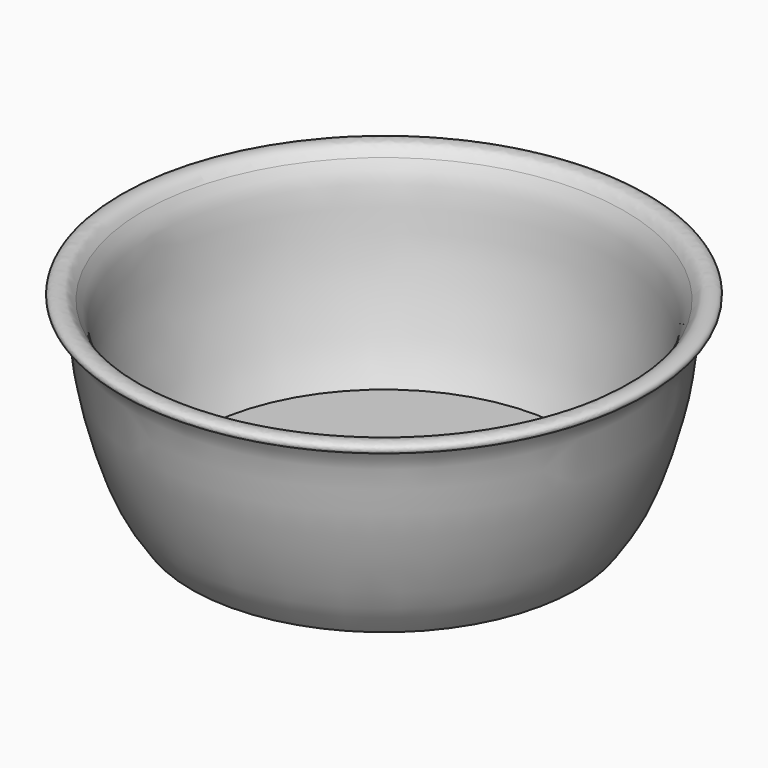
from build123d import *

# Parameters (mm, degrees)
F0_R     = 76.2
F0_R_2   = 73.025
F1_DEPTH = 6.35
F2_DEPTH = 5.08


with BuildPart() as f1:
    # F0 (on Top) → F1 (new body)
    with BuildSketch(Plane.XY):
        Circle(F0_R)
        Circle(F0_R_2, mode=Mode.SUBTRACT)
        Circle(F0_R_2)
        with BuildLine():
            add(Edge.make_bspline(
                [(-18.4934735298, -24.4344193488), (-18.9034670115, -23.3474597731), (-19.5917640548, -20.2951636147), (-19.4234590082, -15.7603633236), (-16.8814295255, -12.0385042312), (-14.08935451, -9.3467016476), (-11.5148539923, -7.1553565583), (-9.6434418125, -3.9427675163), (-8.0995000702, -0.8312551659), (-6.5151638628, 1.1314170066), (-4.0066315907, 3.139574537), (-1.2473791364, 3.8191693743), (1.7083134074, 3.9159171999), (4.4525887912, 2.8197358184), (7.0918213051, 0.7149886211), (8.2717325755, -1.407125935), (10.2104385083, -4.6843993846), (11.8464128715, -7.6192018472), (14.5066008993, -9.670554697), (16.4291664021, -11.4767857382), (18.4010578674, -13.7215037029), (19.562452157, -16.5911324361), (19.5333909632, -20.7296725677), (18.9091556811, -24.3845144775), (17.3730919759, -27.0551536295), (14.3489538995, -29.6949954705), (11.0882679676, -30.6592577199), (7.3450953677, -29.964370628), (4.5478616218, -29.2096646306), (2.3611659003, -28.6722629328), (-0.7989885317, -28.5066079027), (-3.335722799, -28.763489379), (-7.6041761343, -29.9251380879), (-10.041567154, -30.5858993239), (-13.2494692853, -29.9567221745), (-15.6358281562, -28.4720757487), (-17.4795912067, -26.4409745347), (-18.190642818, -25.2372729472), (-18.4934735298, -24.4344193488)],
                knots=[0, 0, 0, 0, 0.0316173687, 0.0645142656, 0.0968883689, 0.1273751291, 0.1556558483, 0.1855029763, 0.2142419626, 0.2388320624, 0.266101142, 0.2921484379, 0.3183688083, 0.3449635369, 0.3728641203, 0.3970941576, 0.4270924787, 0.455779607, 0.4837318602, 0.5090110059, 0.5353542744, 0.562327404, 0.5937715021, 0.6234534668, 0.6503802889, 0.6808868937, 0.7091555642, 0.7391525254, 0.7654253498, 0.7887011254, 0.815657802, 0.8410650755, 0.8732425809, 0.8982207931, 0.9254007262, 0.9515137951, 0.9766466768, 1, 1, 1, 1], degree=3))
        make_face(mode=Mode.SUBTRACT)
        with BuildLine():
            add(Edge.make_bspline(
                [(-27.0922090858, 6.6984295845), (-26.9064236214, 7.2016881707), (-26.4187008888, 8.4095237439), (-24.632388865, 10.6437137028), (-22.7791770772, 11.8233996116), (-21.1657710283, 12.2246084384), (-19.930661779, 11.5488210306), (-19.4109554677, 9.7885706754), (-17.7668810578, 7.783969161), (-16.4589531378, 6.1657663894), (-14.3842306501, 4.6444069096), (-12.7499323192, 2.096062101), (-12.0160596826, -0.7494389975), (-12.4019401398, -3.9150367584), (-14.2334054974, -7.1975826946), (-16.9051053353, -9.2548671628), (-19.5263315007, -10.2667011244), (-20.7825468688, -10.2518840809), (-22.4386967296, -9.5173341414), (-24.9249795836, -7.563222025), (-26.4395312731, -4.8565631316), (-28.0185017534, -1.241851519), (-28.1438201419, 2.0684923371), (-27.6203816617, 5.1620986966), (-27.2666090295, 6.2260122756), (-27.0922090858, 6.6984295845)],
                knots=[0, 0, 0, 0, 0.0370519554, 0.0837519281, 0.1250088777, 0.1593225788, 0.189583302, 0.2263600267, 0.2707990541, 0.3108802359, 0.3547037872, 0.402473265, 0.4493805926, 0.4981394354, 0.5511267813, 0.6023643451, 0.6477104238, 0.6775335416, 0.7137821512, 0.7624511769, 0.8116268863, 0.866001151, 0.916848345, 0.9652187055, 1, 1, 1, 1], degree=3))
        make_face(mode=Mode.SUBTRACT)
        with BuildLine():
            add(Edge.make_bspline(
                [(-4.0214825422, 6.6984295845), (-4.6042555791, 6.4250910434), (-5.8445047433, 5.8433759061), (-8.2415879168, 4.9239951643), (-10.8977706432, 4.9011997738), (-13.4397251888, 5.5107616878), (-15.4533392698, 7.5801394674), (-16.5305164143, 10.4956952753), (-17.0522835817, 12.789193683), (-17.3470030869, 14.4010216534), (-17.4954738468, 15.213011764)],
                knots=[0, 0, 0, 0, 0.110896944, 0.2360092753, 0.3635783693, 0.4881355174, 0.6188630535, 0.7565196482, 0.8773419736, 1, 1, 1, 1], degree=3))
            add(Edge.make_bspline(
                [(-17.4954738468, 15.213011764), (-17.4561601251, 16.4356823794), (-17.3865347695, 18.6010555012), (-16.9961706916, 20.5628348844), (-16.0934956822, 24.0753259107), (-14.5661958131, 27.1549845938), (-12.6512375064, 28.9966251157), (-9.833169788, 30.3309374477), (-6.8576200692, 30.2660460211), (-4.7687983978, 28.5086579451), (-3.4823469523, 24.7530142642), (-1.7595000498, 20.5674650282), (-0.4097002911, 15.8890605215), (-0.6771576154, 10.7931122284), (-2.6522270269, 7.8692485679), (-3.6186912183, 7.0428472064), (-4.0214825422, 6.6984295845)],
                knots=[0, 0, 0, 0, 0.0725844072, 0.128548378, 0.2031802949, 0.2766365415, 0.3402105407, 0.4091510944, 0.4751669543, 0.5373594312, 0.6151504156, 0.6998698032, 0.7873722688, 0.8758441883, 0.9482558338, 1, 1, 1, 1], degree=3))
        make_face(mode=Mode.SUBTRACT)
        with BuildLine():
            add(Edge.make_bspline(
                [(2.6551526971, 8.0171925947), (2.0415851566, 8.6122289292), (1.5421194363, 9.7768756208), (1.0356526929, 12.9328729412), (0.6117333023, 16.0754446389), (1.8247280675, 20.0859719564), (2.9713140226, 23.1130598437), (4.0722047038, 26.0236972574), (5.3161120935, 28.9233606932), (7.6533128317, 30.4009897355), (10.6659945829, 29.9743431498), (13.2918084245, 29.0462001969), (15.5647624935, 26.0243052666), (17.6987542337, 19.9259929029), (17.4487952305, 16.1970432202), (17.2980140998, 13.0439899985), (16.4123028947, 9.8303555389), (15.3739001009, 7.6191946299), (13.6938640371, 5.8708205017), (11.7670526909, 5.0220643842), (9.2486465222, 4.9529028364), (6.7422206596, 5.2821128847), (3.5823253067, 7.1180228136), (2.6551526971, 8.0171925947)],
                knots=[0, 0, 0, 0, 0.0390118384, 0.0860563873, 0.1345245625, 0.1890764788, 0.2379331243, 0.285469206, 0.3327477826, 0.3755304034, 0.421483496, 0.4652908877, 0.5169148443, 0.5852139519, 0.6373671176, 0.6848277358, 0.7337239545, 0.7758846413, 0.8169190677, 0.855585276, 0.8971513482, 0.9410485306, 1, 1, 1, 1], degree=3))
        make_face(mode=Mode.SUBTRACT)
        with BuildLine():
            add(Edge.make_bspline(
                [(12.7615081146, 1.4581960859), (12.9569210128, 2.1018125712), (13.4442020677, 3.1146906939), (15.2395618927, 4.8450692903), (16.3203491756, 5.9898069795), (17.9099164143, 7.3717037169), (18.9509593041, 8.8407923045), (20.1470701122, 10.6089337132), (20.4192629266, 11.5207850484), (21.7624228695, 12.2520783483), (23.0432046759, 11.7330622352), (24.8570185955, 10.5516211064), (26.1676826598, 9.076451103), (27.6505441252, 5.4305872661), (28.4706162152, 2.0271756408), (27.8410164017, -1.3807392795), (26.726992013, -4.6393762782), (24.7899317936, -7.8187880977), (22.2740248825, -9.7303607077), (20.5640741152, -10.3479782638), (18.1039452202, -9.8693297605), (15.4311711544, -8.0653145941), (13.8397125433, -6.0025556542), (12.5005666511, -3.6288732078), (12.1486855275, -1.3756316388), (12.5178717372, 0.6557496231), (12.7615081146, 1.4581960859)],
                knots=[0, 0, 0, 0, 0.0366327768, 0.0785747435, 0.1133953118, 0.1519386262, 0.1894373355, 0.2284532806, 0.2547442631, 0.2857046005, 0.3169699979, 0.3562841793, 0.3944942507, 0.4478096208, 0.4990246312, 0.5486974356, 0.5991858029, 0.651707608, 0.6992064757, 0.7347137441, 0.7765306285, 0.8250506683, 0.8691920548, 0.9131992847, 0.9543270832, 1, 1, 1, 1], degree=3))
        make_face(mode=Mode.SUBTRACT)
    extrude(amount=F1_DEPTH)

    # F0 (on Top) → F2 (join)
    with BuildSketch(Plane.XY):
        with BuildLine():
            add(Edge.make_bspline(
                [(-27.0922090858, 6.6984295845), (-26.9064236214, 7.2016881707), (-26.4187008888, 8.4095237439), (-24.632388865, 10.6437137028), (-22.7791770772, 11.8233996116), (-21.1657710283, 12.2246084384), (-19.930661779, 11.5488210306), (-19.4109554677, 9.7885706754), (-17.7668810578, 7.783969161), (-16.4589531378, 6.1657663894), (-14.3842306501, 4.6444069096), (-12.7499323192, 2.096062101), (-12.0160596826, -0.7494389975), (-12.4019401398, -3.9150367584), (-14.2334054974, -7.1975826946), (-16.9051053353, -9.2548671628), (-19.5263315007, -10.2667011244), (-20.7825468688, -10.2518840809), (-22.4386967296, -9.5173341414), (-24.9249795836, -7.563222025), (-26.4395312731, -4.8565631316), (-28.0185017534, -1.241851519), (-28.1438201419, 2.0684923371), (-27.6203816617, 5.1620986966), (-27.2666090295, 6.2260122756), (-27.0922090858, 6.6984295845)],
                knots=[0, 0, 0, 0, 0.0370519554, 0.0837519281, 0.1250088777, 0.1593225788, 0.189583302, 0.2263600267, 0.2707990541, 0.3108802359, 0.3547037872, 0.402473265, 0.4493805926, 0.4981394354, 0.5511267813, 0.6023643451, 0.6477104238, 0.6775335416, 0.7137821512, 0.7624511769, 0.8116268863, 0.866001151, 0.916848345, 0.9652187055, 1, 1, 1, 1], degree=3))
        make_face()
        with BuildLine():
            add(Edge.make_bspline(
                [(-17.4954738468, 15.213011764), (-17.4561601251, 16.4356823794), (-17.3865347695, 18.6010555012), (-16.9961706916, 20.5628348844), (-16.0934956822, 24.0753259107), (-14.5661958131, 27.1549845938), (-12.6512375064, 28.9966251157), (-9.833169788, 30.3309374477), (-6.8576200692, 30.2660460211), (-4.7687983978, 28.5086579451), (-3.4823469523, 24.7530142642), (-1.7595000498, 20.5674650282), (-0.4097002911, 15.8890605215), (-0.6771576154, 10.7931122284), (-2.6522270269, 7.8692485679), (-3.6186912183, 7.0428472064), (-4.0214825422, 6.6984295845)],
                knots=[0, 0, 0, 0, 0.0725844072, 0.128548378, 0.2031802949, 0.2766365415, 0.3402105407, 0.4091510944, 0.4751669543, 0.5373594312, 0.6151504156, 0.6998698032, 0.7873722688, 0.8758441883, 0.9482558338, 1, 1, 1, 1], degree=3))
            add(Edge.make_bspline(
                [(-4.0214825422, 6.6984295845), (-4.6042555791, 6.4250910434), (-5.8445047433, 5.8433759061), (-8.2415879168, 4.9239951643), (-10.8977706432, 4.9011997738), (-13.4397251888, 5.5107616878), (-15.4533392698, 7.5801394674), (-16.5305164143, 10.4956952753), (-17.0522835817, 12.789193683), (-17.3470030869, 14.4010216534), (-17.4954738468, 15.213011764)],
                knots=[0, 0, 0, 0, 0.110896944, 0.2360092753, 0.3635783693, 0.4881355174, 0.6188630535, 0.7565196482, 0.8773419736, 1, 1, 1, 1], degree=3))
        make_face()
        with BuildLine():
            add(Edge.make_bspline(
                [(2.6551526971, 8.0171925947), (2.0415851566, 8.6122289292), (1.5421194363, 9.7768756208), (1.0356526929, 12.9328729412), (0.6117333023, 16.0754446389), (1.8247280675, 20.0859719564), (2.9713140226, 23.1130598437), (4.0722047038, 26.0236972574), (5.3161120935, 28.9233606932), (7.6533128317, 30.4009897355), (10.6659945829, 29.9743431498), (13.2918084245, 29.0462001969), (15.5647624935, 26.0243052666), (17.6987542337, 19.9259929029), (17.4487952305, 16.1970432202), (17.2980140998, 13.0439899985), (16.4123028947, 9.8303555389), (15.3739001009, 7.6191946299), (13.6938640371, 5.8708205017), (11.7670526909, 5.0220643842), (9.2486465222, 4.9529028364), (6.7422206596, 5.2821128847), (3.5823253067, 7.1180228136), (2.6551526971, 8.0171925947)],
                knots=[0, 0, 0, 0, 0.0390118384, 0.0860563873, 0.1345245625, 0.1890764788, 0.2379331243, 0.285469206, 0.3327477826, 0.3755304034, 0.421483496, 0.4652908877, 0.5169148443, 0.5852139519, 0.6373671176, 0.6848277358, 0.7337239545, 0.7758846413, 0.8169190677, 0.855585276, 0.8971513482, 0.9410485306, 1, 1, 1, 1], degree=3))
        make_face()
        with BuildLine():
            add(Edge.make_bspline(
                [(12.7615081146, 1.4581960859), (12.9569210128, 2.1018125712), (13.4442020677, 3.1146906939), (15.2395618927, 4.8450692903), (16.3203491756, 5.9898069795), (17.9099164143, 7.3717037169), (18.9509593041, 8.8407923045), (20.1470701122, 10.6089337132), (20.4192629266, 11.5207850484), (21.7624228695, 12.2520783483), (23.0432046759, 11.7330622352), (24.8570185955, 10.5516211064), (26.1676826598, 9.076451103), (27.6505441252, 5.4305872661), (28.4706162152, 2.0271756408), (27.8410164017, -1.3807392795), (26.726992013, -4.6393762782), (24.7899317936, -7.8187880977), (22.2740248825, -9.7303607077), (20.5640741152, -10.3479782638), (18.1039452202, -9.8693297605), (15.4311711544, -8.0653145941), (13.8397125433, -6.0025556542), (12.5005666511, -3.6288732078), (12.1486855275, -1.3756316388), (12.5178717372, 0.6557496231), (12.7615081146, 1.4581960859)],
                knots=[0, 0, 0, 0, 0.0366327768, 0.0785747435, 0.1133953118, 0.1519386262, 0.1894373355, 0.2284532806, 0.2547442631, 0.2857046005, 0.3169699979, 0.3562841793, 0.3944942507, 0.4478096208, 0.4990246312, 0.5486974356, 0.5991858029, 0.651707608, 0.6992064757, 0.7347137441, 0.7765306285, 0.8250506683, 0.8691920548, 0.9131992847, 0.9543270832, 1, 1, 1, 1], degree=3))
        make_face()
        with BuildLine():
            add(Edge.make_bspline(
                [(-18.4934735298, -24.4344193488), (-18.9034670115, -23.3474597731), (-19.5917640548, -20.2951636147), (-19.4234590082, -15.7603633236), (-16.8814295255, -12.0385042312), (-14.08935451, -9.3467016476), (-11.5148539923, -7.1553565583), (-9.6434418125, -3.9427675163), (-8.0995000702, -0.8312551659), (-6.5151638628, 1.1314170066), (-4.0066315907, 3.139574537), (-1.2473791364, 3.8191693743), (1.7083134074, 3.9159171999), (4.4525887912, 2.8197358184), (7.0918213051, 0.7149886211), (8.2717325755, -1.407125935), (10.2104385083, -4.6843993846), (11.8464128715, -7.6192018472), (14.5066008993, -9.670554697), (16.4291664021, -11.4767857382), (18.4010578674, -13.7215037029), (19.562452157, -16.5911324361), (19.5333909632, -20.7296725677), (18.9091556811, -24.3845144775), (17.3730919759, -27.0551536295), (14.3489538995, -29.6949954705), (11.0882679676, -30.6592577199), (7.3450953677, -29.964370628), (4.5478616218, -29.2096646306), (2.3611659003, -28.6722629328), (-0.7989885317, -28.5066079027), (-3.335722799, -28.763489379), (-7.6041761343, -29.9251380879), (-10.041567154, -30.5858993239), (-13.2494692853, -29.9567221745), (-15.6358281562, -28.4720757487), (-17.4795912067, -26.4409745347), (-18.190642818, -25.2372729472), (-18.4934735298, -24.4344193488)],
                knots=[0, 0, 0, 0, 0.0316173687, 0.0645142656, 0.0968883689, 0.1273751291, 0.1556558483, 0.1855029763, 0.2142419626, 0.2388320624, 0.266101142, 0.2921484379, 0.3183688083, 0.3449635369, 0.3728641203, 0.3970941576, 0.4270924787, 0.455779607, 0.4837318602, 0.5090110059, 0.5353542744, 0.562327404, 0.5937715021, 0.6234534668, 0.6503802889, 0.6808868937, 0.7091555642, 0.7391525254, 0.7654253498, 0.7887011254, 0.815657802, 0.8410650755, 0.8732425809, 0.8982207931, 0.9254007262, 0.9515137951, 0.9766466768, 1, 1, 1, 1], degree=3))
        make_face()
    extrude(amount=F2_DEPTH)

    # F3 (on Front) → F4 (revolve)
    with BuildSketch(Plane.XZ):
        with BuildLine():
            add(Edge.make_bspline(
                [(-76.2, 0), (-77.7413564581, 2.1766658073), (-81.1814607226, 7.0346967236), (-86.9402284753, 18.3294484458), (-92.591330302, 37.1714940873), (-96.4202753513, 53.5297613517), (-97.3483549346, 69.5384172955), (-100.3647504766, 74.2645804779), (-101.6, 76.2)],
                knots=[0, 0, 0, 0, 0.1325834289, 0.2959087217, 0.5001833998, 0.6936677665, 0.8745533402, 1, 1, 1, 1], degree=3))
            Line((-76.2, 0), (-69.85, 0))
            add(Edge.make_bspline(
                [(-69.85, 0), (-71.4856013656, 2.2423162591), (-74.7774899846, 6.9970718361), (-80.6105035376, 18.3437136335), (-86.2351213799, 37.1665149301), (-90.0738095663, 53.5344405633), (-90.9915797065, 69.5270000643), (-94.0243675523, 74.2811628963), (-95.25, 76.2)],
                knots=[0, 0, 0, 0, 0.1325834289, 0.2959087217, 0.5001833998, 0.6936677665, 0.8745533402, 1, 1, 1, 1], degree=3))
            Line((-95.25, 76.2), (-101.6, 76.2))
        make_face()
    revolve(axis=Axis((0, 0, 38.1), (0, 0, 1)))

    # F3 (on Front) → F5 (revolve)
    with BuildSketch(Plane.XZ):
        with BuildLine():
            Line((-102.3880690336, 76.2), (-101.6, 76.2))
            Line((-101.6, 76.2), (-95.25, 76.2))
            add(Edge.make_bspline(
                [(-95.25, 76.2), (-95.6545616027, 76.843260848), (-96.7709206446, 78.7005466718), (-99.6229351698, 80.2689820936), (-103.9505636141, 79.806903158), (-104.6807213005, 77.9546160439), (-104.0089211007, 76.5187679805), (-102.800552282, 76.337884441), (-102.3880690336, 76.2)],
                knots=[0, 0, 0, 0, 0.1818684205, 0.3803247086, 0.598112043, 0.7360935858, 0.863698903, 1, 1, 1, 1], degree=3))
        make_face()
    revolve(axis=Axis((0, 0, 38.1), (0, 0, 1)))


solid = f1.part
